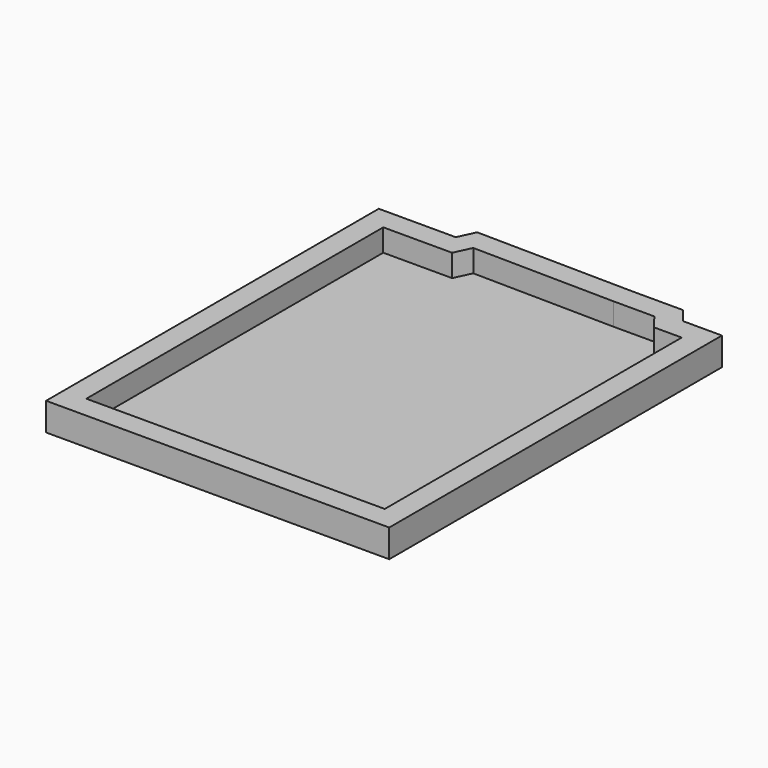
from build123d import *

# Parameters (mm, degrees)
F1_DEPTH = 5
F2_DEPTH = 1


with BuildPart() as f1:
    # F0 (on Top) → F1 (new body)
    with BuildSketch(Plane.XY):
        Polygon((19.19481, 70.408), (17.181838, 73.022946), (7.964966, 73.022946), (-20.01172, 73.433359), (-21.430185, 70.408), (-31.604451, 70.408), (-35.205591, 70.408), (-35.205591, -4), (26.194409, -4), (26.194409, 70.408), align=None)
        Polygon((22.194409, 0), (-31.205591, 0), (-31.205591, 66.408), (-18.887785, 66.408), (-17.486888, 69.39589), (7.935628, 69.022946), (15.213112, 69.022946), (17.226085, 66.408), (22.194409, 66.408), align=None, mode=Mode.SUBTRACT)
    extrude(amount=F1_DEPTH)

    # F0 (on Top) → F2 (join)
    with BuildSketch(Plane.XY):
        Polygon((-31.205591, 66.408), (-31.205591, 0), (22.194409, 0), (22.194409, 66.408), (17.226085, 66.408), (15.213112, 69.022946), (7.935628, 69.022946), (-17.486888, 69.39589), (-18.887785, 66.408), align=None)
    extrude(amount=F2_DEPTH)


solid = f1.part
